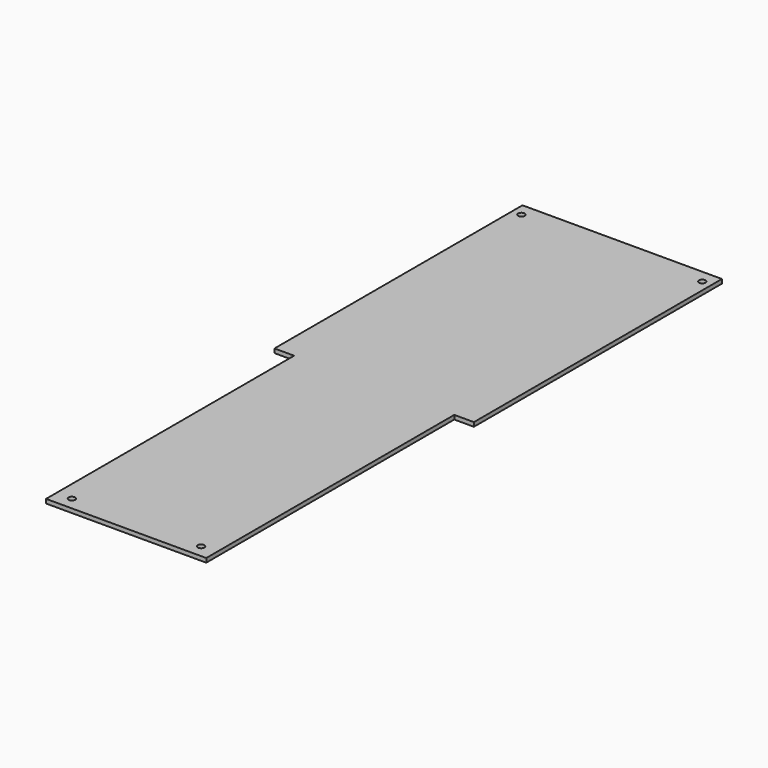
from build123d import *

# Parameters (mm, degrees)
F0_R     = 3.2
F0_R_2   = 3.15
F1_DEPTH = 4


with BuildPart() as f1:
    # F0 (on Top) → F1 (new body)
    with BuildSketch(Plane.XY):
        Polygon((-139.19194, 253.210782), (-235.69194, 253.210782), (-235.69194, -46.789218), (-216.69194, -46.789218), (-216.69194, -346.789218), (-139.19194, -346.789218), align=None)
        with Locations((-201.69194, -334.289218)):
            Circle(F0_R, mode=Mode.SUBTRACT)
        with Locations((-226.69194, 240.710782)):
            Circle(F0_R, mode=Mode.SUBTRACT)
        Polygon((-42.69194, 253.210782), (-139.19194, 253.210782), (-139.19194, -346.789218), (-61.69194, -346.789218), (-61.69194, -46.789218), (-42.69194, -46.789218), align=None)
        with Locations((-76.69194, -334.289218)):
            Circle(F0_R, mode=Mode.SUBTRACT)
        with Locations((-51.69194, 240.710782)):
            Circle(F0_R_2, mode=Mode.SUBTRACT)
    extrude(amount=F1_DEPTH)


solid = f1.part
